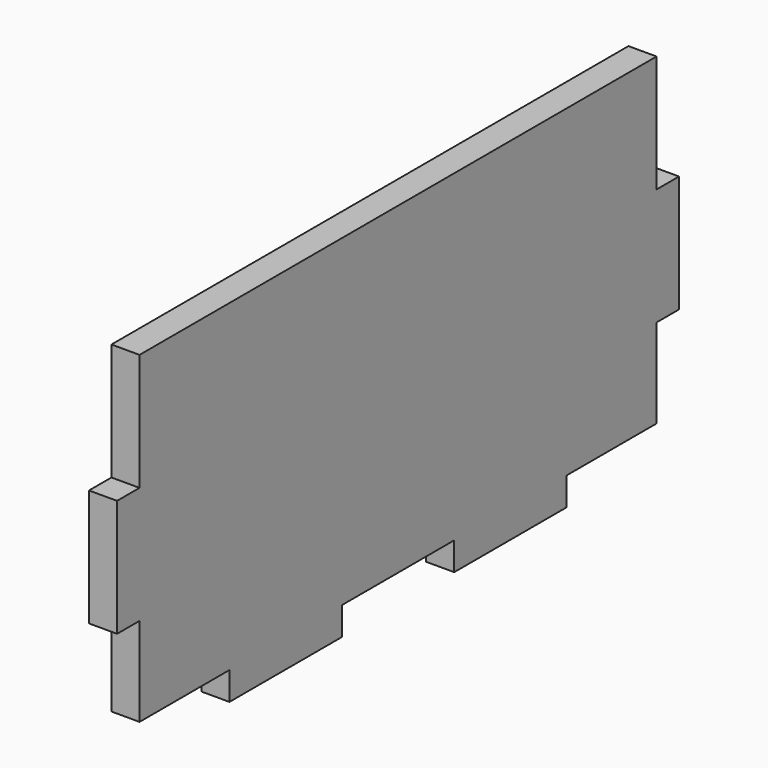
from build123d import *

# Parameters (mm, degrees)
F0_W     = 100
F0_H     = 50
F1_DEPTH = 4
F2_W     = 4
F2_H     = 4
F2_W_2   = 16
F2_H_2   = 12.6666666667
F2_H_3   = 16.6666666666
F2_W_3   = 20
F2_H_4   = 16.6666666667
F3_DEPTH = 4


with BuildPart() as f1:
    # F0 (on Right) → F1 (new body)
    with BuildSketch(Plane.YZ):
        with Locations((50, 25)):
            Rectangle(F0_W, F0_H)
    extrude(amount=F1_DEPTH)

    # F2 (on Right) → F3 (cut)
    with BuildSketch(Plane.YZ):
        with Locations((2, 2)):
            Rectangle(F2_W, F2_H)
        with Locations((12, 2)):
            Rectangle(F2_W_2, F2_H)
        with Locations((2, 10.3333333334)):
            Rectangle(F2_W, F2_H_2)
        with Locations((2, 41.6666666667)):
            Rectangle(F2_W, F2_H_3)
        with Locations((50, 2)):
            Rectangle(F2_W_3, F2_H)
        with Locations((98, 2)):
            Rectangle(F2_W, F2_H)
        with Locations((88, 2)):
            Rectangle(F2_W_2, F2_H)
        with Locations((98, 10.3333333333)):
            Rectangle(F2_W, F2_H_2)
        with Locations((98, 41.6666666667)):
            Rectangle(F2_W, F2_H_4)
    extrude(amount=F3_DEPTH, mode=Mode.SUBTRACT)


solid = f1.part
